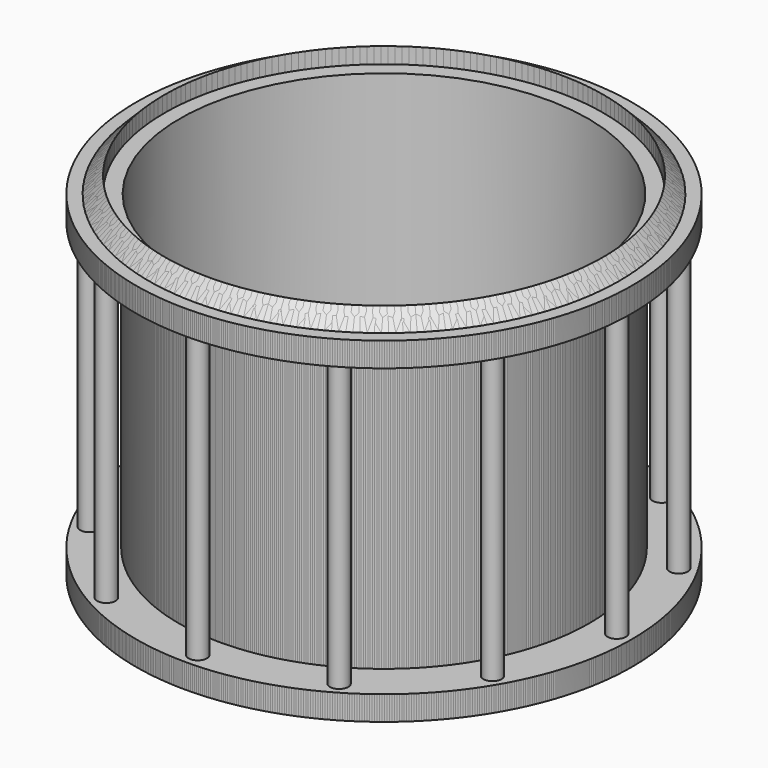
from build123d import *

# Parameters (mm, degrees)
F0_R      = 40.64
F1_DEPTH  = 4
F2_R      = 33.6225029932
F3_DEPTH  = 47
F4_R      = 40.64
F4_R_2    = 33.6225029932
F5_DEPTH  = 4
F8_R      = 1.5
F9_DEPTH  = 55
F11_COUNT = 12
F12_R     = 33.4470028122
F13_DEPTH = 48.1


with BuildPart() as f1:
    # F0 (on Top) → F1 (new body)
    with BuildSketch(Plane.XY):
        Circle(F0_R)
    extrude(amount=F1_DEPTH)

    # F2 (on face) → F3 (join)
    with BuildSketch(Plane.XY.offset(4)):
        Circle(F2_R)
    extrude(amount=F3_DEPTH)

    # F4 (on face) → F5 (join)
    with BuildSketch(Plane.XY.offset(51)):
        Circle(F4_R)
        Circle(F4_R_2, mode=Mode.SUBTRACT)
        Circle(F4_R_2)
    extrude(amount=F5_DEPTH)

    # F6 (on Right) → F7 (revolve)
    with BuildSketch(Plane.YZ):
        Polygon((-35.98361, 57.6), (-38.57158, 55), (-35.98361, 55), align=None)
    revolve(axis=Axis((0, 0, 58.642713353), (0, 0, 1)))

    # F8 (on face) → F9 (join)
    with BuildSketch(Plane.XY):
        with Locations((0, -38.14)):
            Circle(F8_R)
    extrude(amount=F9_DEPTH)


with BuildPart() as f11_1:
    # F11: instance of F1
    add(f1.part.rotate(Axis((0, 0, 22.0688153058), (0, 0, 1)), 1 * 360 / F11_COUNT))


with BuildPart() as f11_2:
    # F11: instance of F1
    add(f1.part.rotate(Axis((0, 0, 22.0688153058), (0, 0, 1)), 2 * 360 / F11_COUNT))


with BuildPart() as f11_3:
    # F11: instance of F1
    add(f1.part.rotate(Axis((0, 0, 22.0688153058), (0, 0, 1)), 3 * 360 / F11_COUNT))


with BuildPart() as f11_4:
    # F11: instance of F1
    add(f1.part.rotate(Axis((0, 0, 22.0688153058), (0, 0, 1)), 4 * 360 / F11_COUNT))


with BuildPart() as f11_5:
    # F11: instance of F1
    add(f1.part.rotate(Axis((0, 0, 22.0688153058), (0, 0, 1)), 5 * 360 / F11_COUNT))


with BuildPart() as f11_6:
    # F11: instance of F1
    add(f1.part.rotate(Axis((0, 0, 22.0688153058), (0, 0, 1)), 6 * 360 / F11_COUNT))


with BuildPart() as f11_7:
    # F11: instance of F1
    add(f1.part.rotate(Axis((0, 0, 22.0688153058), (0, 0, 1)), 7 * 360 / F11_COUNT))


with BuildPart() as f11_8:
    # F11: instance of F1
    add(f1.part.rotate(Axis((0, 0, 22.0688153058), (0, 0, 1)), 8 * 360 / F11_COUNT))


with BuildPart() as f11_9:
    # F11: instance of F1
    add(f1.part.rotate(Axis((0, 0, 22.0688153058), (0, 0, 1)), 9 * 360 / F11_COUNT))


with BuildPart() as f11_10:
    # F11: instance of F1
    add(f1.part.rotate(Axis((0, 0, 22.0688153058), (0, 0, 1)), 10 * 360 / F11_COUNT))


with BuildPart() as f11_11:
    # F11: instance of F1
    add(f1.part.rotate(Axis((0, 0, 22.0688153058), (0, 0, 1)), 11 * 360 / F11_COUNT))


with BuildPart() as f13_tool:
    # F12 (on face) → F13 (new body, symmetric)
    with BuildSketch(Plane.XY.offset(55)):
        Circle(F12_R)
    extrude(amount=F13_DEPTH, both=True)


with BuildPart() as f1_1:
    add(f1.part)

    # F13: cut by f13_tool
    add(f13_tool.part, mode=Mode.SUBTRACT)


with BuildPart() as f11_1_1:
    add(f11_1.part)

    # F13: cut by f13_tool
    add(f13_tool.part, mode=Mode.SUBTRACT)


with BuildPart() as f11_2_1:
    add(f11_2.part)

    # F13: cut by f13_tool
    add(f13_tool.part, mode=Mode.SUBTRACT)


with BuildPart() as f11_3_1:
    add(f11_3.part)

    # F13: cut by f13_tool
    add(f13_tool.part, mode=Mode.SUBTRACT)


with BuildPart() as f11_4_1:
    add(f11_4.part)

    # F13: cut by f13_tool
    add(f13_tool.part, mode=Mode.SUBTRACT)


with BuildPart() as f11_5_1:
    add(f11_5.part)

    # F13: cut by f13_tool
    add(f13_tool.part, mode=Mode.SUBTRACT)


with BuildPart() as f11_6_1:
    add(f11_6.part)

    # F13: cut by f13_tool
    add(f13_tool.part, mode=Mode.SUBTRACT)


with BuildPart() as f11_7_1:
    add(f11_7.part)

    # F13: cut by f13_tool
    add(f13_tool.part, mode=Mode.SUBTRACT)


with BuildPart() as f11_8_1:
    add(f11_8.part)

    # F13: cut by f13_tool
    add(f13_tool.part, mode=Mode.SUBTRACT)


with BuildPart() as f11_9_1:
    add(f11_9.part)

    # F13: cut by f13_tool
    add(f13_tool.part, mode=Mode.SUBTRACT)


with BuildPart() as f11_10_1:
    add(f11_10.part)

    # F13: cut by f13_tool
    add(f13_tool.part, mode=Mode.SUBTRACT)


with BuildPart() as f11_11_1:
    add(f11_11.part)

    # F13: cut by f13_tool
    add(f13_tool.part, mode=Mode.SUBTRACT)


solid = Compound([f1_1.part, f11_1_1.part, f11_2_1.part, f11_3_1.part, f11_4_1.part, f11_5_1.part, f11_6_1.part, f11_7_1.part, f11_8_1.part, f11_9_1.part, f11_10_1.part, f11_11_1.part])
